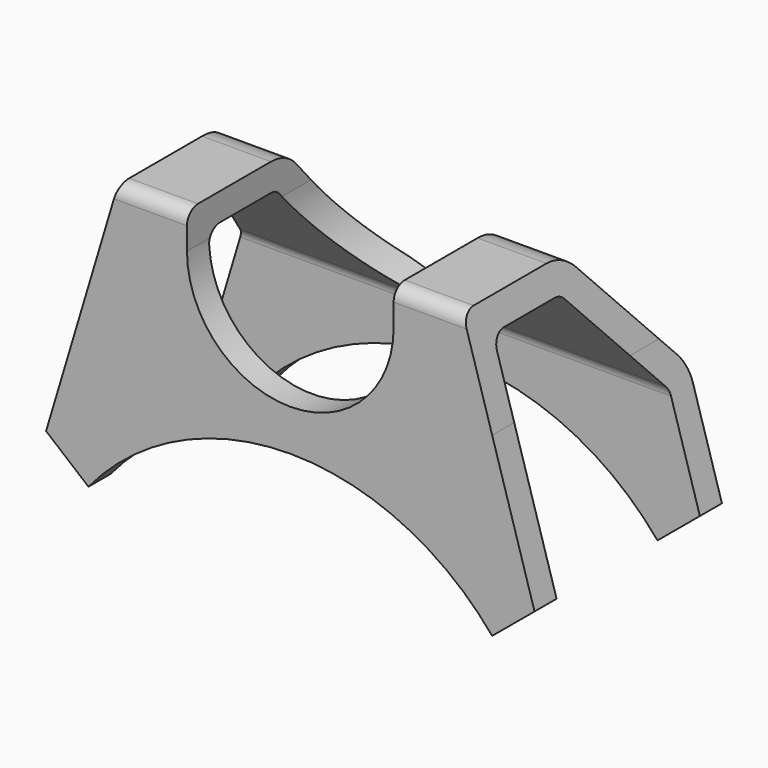
from build123d import *

# Parameters (mm, degrees)
F1_DEPTH = 17
F3_DEPTH = 20


with BuildPart() as f1:
    # F0 (on Front) → F1 (new body)
    with BuildSketch(Plane.XZ):
        with BuildLine():
            ThreePointArc((-14.65, 12.177028), (0, 19.05), (14.65, 12.177028))
            Line((14.65, 12.177028), (14.65, 25.000998))
            Line((14.65, 25.000998), (12.5, 32.177028))
            Line((12.5, 32.177028), (7.5, 32.177028))
            Line((7.5, 32.177028), (7.5, 29.55))
            ThreePointArc((7.5, 29.55), (0, 22.05), (-7.5, 29.55))
            Line((-7.5, 29.55), (-7.5, 32.177028))
            Line((-7.5, 32.177028), (-12.5, 32.177028))
            Line((-12.5, 32.177028), (-14.65, 25.000998))
            Line((-14.65, 25.000998), (-14.65, 12.177028))
        make_face()
        Polygon((-17.726115, 14.733884), (-14.65, 12.177028), (-14.65, 25.000998), align=None)
        Polygon((14.65, 25.000998), (14.65, 12.177028), (17.726115, 14.733884), align=None)
    extrude(amount=F1_DEPTH)

    # F2 (on Right) → F3 (cut, symmetric)
    with BuildSketch(Plane.YZ):
        with BuildLine():
            Line((0, 32.177028), (-9.381971, 32.177028))
            ThreePointArc((-9.381971, 32.177028), (-8.126777, 31.901819), (-7.101876, 31.126685))
            Line((-7.101876, 31.126685), (-0.719905, 23.663067))
            ThreePointArc((-0.719905, 23.663067), (-0.185725, 22.752571), (0, 21.713409))
            Line((0, 21.713409), (0, 32.177028))
        make_face()
        with BuildLine():
            Line((-15, 14.733884), (-15, 12.177028))
            Line((-15, 12.177028), (-2, 12.177028))
            Line((-2, 12.177028), (-2, 14.733884))
            Line((-2, 14.733884), (-2, 21.713409))
            ThreePointArc((-2, 21.713409), (-2.061908, 22.059797), (-2.239968, 22.363295))
            Line((-2.239968, 22.363295), (-8.62194, 29.826914))
            ThreePointArc((-8.62194, 29.826914), (-8.963573, 30.085291), (-9.381971, 30.177028))
            Line((-9.381971, 30.177028), (-14, 30.177028))
            ThreePointArc((-14, 30.177028), (-14.707107, 29.884134), (-15, 29.177028))
            Line((-15, 29.177028), (-15, 14.733884))
        make_face()
        with BuildLine():
            Line((-17, 32.177028), (-17, 31.177028))
            ThreePointArc((-17, 31.177028), (-16.707107, 31.884134), (-16, 32.177028))
            Line((-16, 32.177028), (-17, 32.177028))
        make_face()
    extrude(amount=F3_DEPTH, both=True, mode=Mode.SUBTRACT)


solid = f1.part
